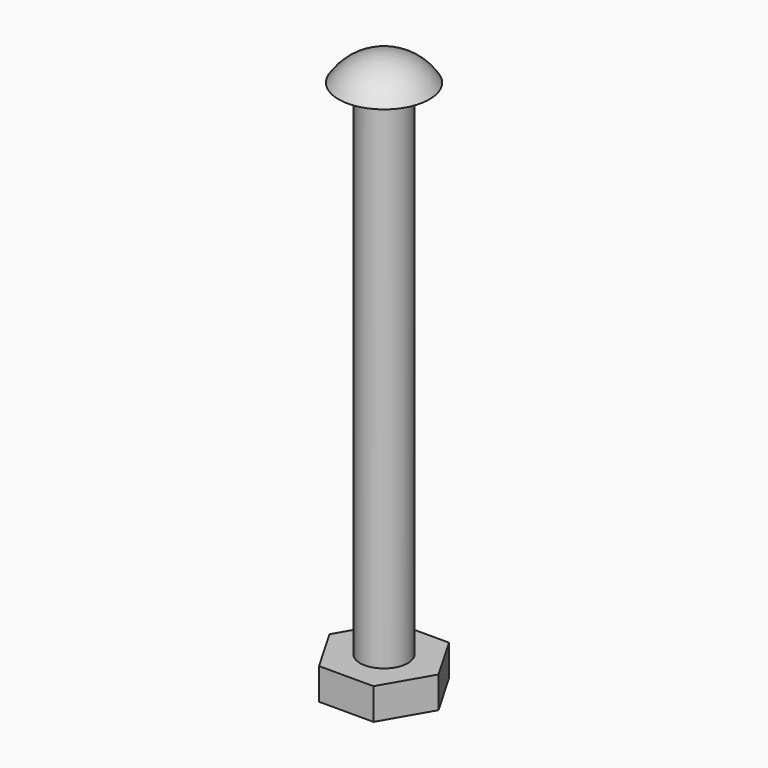
from build123d import *

# Parameters (mm, degrees)
F3_DEPTH = 3.175


with BuildPart() as f1:
    # F0 (on Front) → F1 (revolve)
    with BuildSketch(Plane.XZ):
        with BuildLine():
            Line((0, 0), (0, 50.8))
            Line((0, 50.8), (0, 53.3654))
            ThreePointArc((0, 53.3654), (-2.626821, 52.680442), (-4.5847, 50.8))
            Line((-4.5847, 50.8), (-2.413, 50.8))
            Line((-2.413, 50.8), (-2.413, 0))
            Line((-2.413, 0), (0, 0))
        make_face()
    revolve(axis=Axis((0, 0, 25.4), (0, 0, -1)))

    # F2 (on face) → F3 (join)
    with BuildSketch(Plane(origin=(0, 0, 0), x_dir=(1, 0, 0), z_dir=(0, 0, -1))):
        Polygon((2.749631, 4.7625), (-2.749631, 4.7625), (-5.499261, 0), (-2.749631, -4.7625), (2.749631, -4.7625), (5.499261, 0), align=None)
    extrude(amount=F3_DEPTH)


solid = f1.part
